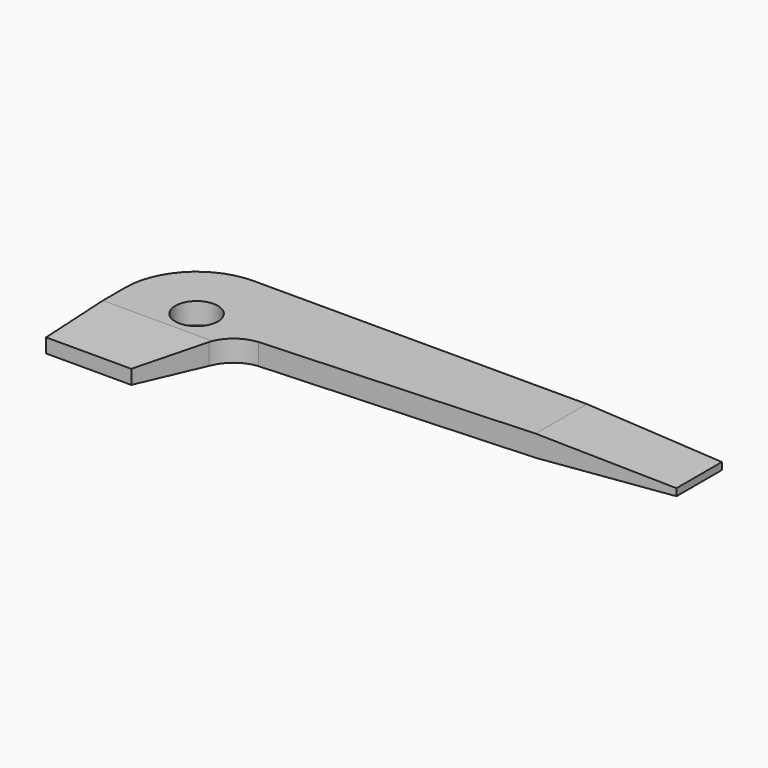
from build123d import *

# Parameters (mm, degrees)
F0_R      = 2.38125
F1_DEPTH  = 2.38125
F2_R      = 7.9375
F4_DEPTH  = 19.051
F6_DEPTH  = 9.5648146833
F8_DEPTH  = 19.051
F10_DEPTH = 60.326


with BuildPart() as f1:
    # F0 (on Top) → F1 (new body)
    with BuildSketch(Plane.XY):
        with BuildLine():
            Line((6.8802531183, 46.4430405467), (-53.4447468817, 46.4430405467))
            Line((-53.4447468817, 46.4430405467), (-53.4447468817, 27.3930405467))
            Line((-53.4447468817, 27.3930405467), (-43.9197468817, 27.3930405467))
            Line((-43.9197468817, 27.3930405467), (-41.3273820942, 35.0202070092))
            ThreePointArc((-41.3273820942, 35.0202070092), (-40.0228140496, 36.8628863815), (-37.9243791103, 37.6959145069))
            Line((-37.9243791103, 37.6959145069), (6.8802531183, 40.0930405467))
            Line((6.8802531183, 40.0930405467), (6.8802531183, 46.4430405467))
        make_face()
        with Locations((-45.5072468817, 38.5055405467)):
            Circle(F0_R, mode=Mode.SUBTRACT)
    extrude(amount=F1_DEPTH)

    # F2
    f2_edges = [f1.edges().sort_by_distance(p)[0] for p in [
        (-53.444747, 46.443041, 1.190625),
    ]]
    fillet(f2_edges, radius=F2_R)

    # F3 (on face) → F4 (cut, through all)
    with BuildSketch(Plane(origin=(0, 46.4430405467, 0), x_dir=(-1, 0, 0), z_dir=(0, 1, 0))):
        Polygon((-7.2697603085, 1.5504802494), (-6.8802531183, 1.5907407505), (8.2211783156, 2.38125), (8.2030607001, 2.727358446), (-7.2193359956, 3.1990723219), align=None)
    extrude(amount=-F4_DEPTH, mode=Mode.SUBTRACT)

    # F5 (on face) → F6 (cut, through all)
    with BuildSketch(Plane(origin=(-2.1192870449, 39.6115494375, 0), x_dir=(0.9985718469, 0.053425337, 0), z_dir=(0.053425337, -0.9985718469, 0))):
        Polygon((9.0124112666, 0.7953703753), (-6.0780490749, 0), (9.0124112666, 0), align=None)
    extrude(amount=-F6_DEPTH, mode=Mode.SUBTRACT)

    # F7 (on face) → F8 (cut, through all)
    with BuildSketch(Plane(origin=(0, 46.4430405467, 0), x_dir=(-1, 0, 0), z_dir=(0, 1, 0))):
        Polygon((-6.5405170331, 0.7953703753), (-6.8802531183, 0.7953703753), (-6.9836541079, 0.7953703753), (-6.9836541079, -0.0977396412), (-6.5405170331, -0.0977396412), align=None)
    extrude(amount=-F8_DEPTH, mode=Mode.SUBTRACT)

    # F9 (on face) → F10 (cut, through all)
    with BuildSketch(Plane(origin=(-53.4447468817, 0, 0), x_dir=(0, -1, 0), z_dir=(-1, 0, 0))):
        Polygon((-35.3305405467, 2.38125), (-27.3930405467, 1.984375), (-26.6849351877, 1.984375), (-26.7145372927, 2.7254258748), align=None)
        Polygon((-26.9428193569, 0.396875), (-27.3930405467, 0.396875), (-35.3432405467, 0), (-35.0132025778, -0.3093605337), (-26.8219634891, -0.3093605337), align=None)
    extrude(amount=-F10_DEPTH, mode=Mode.SUBTRACT)


solid = f1.part
